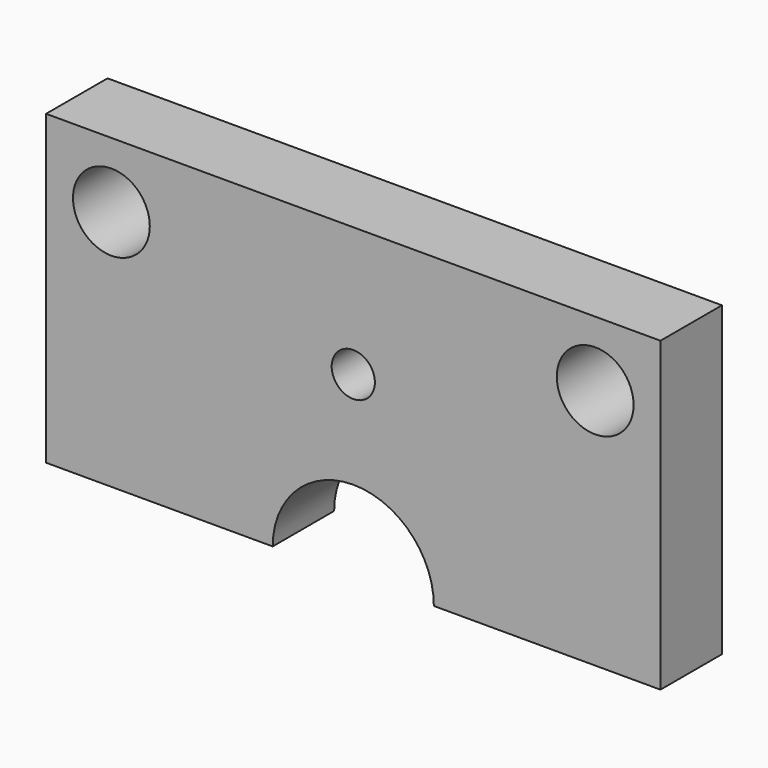
from build123d import *

# Parameters (mm, degrees)
SKETCH068_R  = 3.571875
PAD069_DEPTH = 30
SKETCH067_R  = 6.35
PAD068_DEPTH = 12.7


with BuildPart() as body067:
    # Sketch068 → Pad069 (new body)
    with BuildSketch(Plane.XZ):
        Circle(SKETCH068_R)
    extrude(amount=PAD069_DEPTH)


with BuildPart() as body067_1:
    # Body067 placement: moved
    add(body067.part.moved(Location((41.6, 2, 149.369))))


with BuildPart() as cut054:
    # Sketch067 → Pad068 (new body)
    with BuildSketch(Plane.XZ):
        with BuildLine():
            Line((-50.8, 110), (-50.8, 160.8))
            Line((-50.8, 160.8), (50.8, 160.8))
            Line((50.8, 160.8), (50.8, 110))
            Line((50.8, 110), (13.325, 110))
            ThreePointArc((13.325, 110), (0, 123.325016), (-13.325, 110))
            Line((-50.8, 110), (-13.325, 110))
        make_face()
        with Locations((-40, 150)):
            Circle(SKETCH067_R, mode=Mode.SUBTRACT)
        with Locations((40, 150)):
            Circle(SKETCH067_R, mode=Mode.SUBTRACT)
    extrude(amount=PAD068_DEPTH)


with BuildPart() as cut054_1:
    # Body066 placement: moved
    add(cut054.part.moved(Location((41.6, 0, 10))))

    # Cut054: cut Body067
    add(body067_1.part, mode=Mode.SUBTRACT)


with BuildPart() as cut054_2:
    # Cut054 placement: moved
    add(cut054_1.part.moved(Location((99.2, 0, 0))))


solid = cut054_2.part
